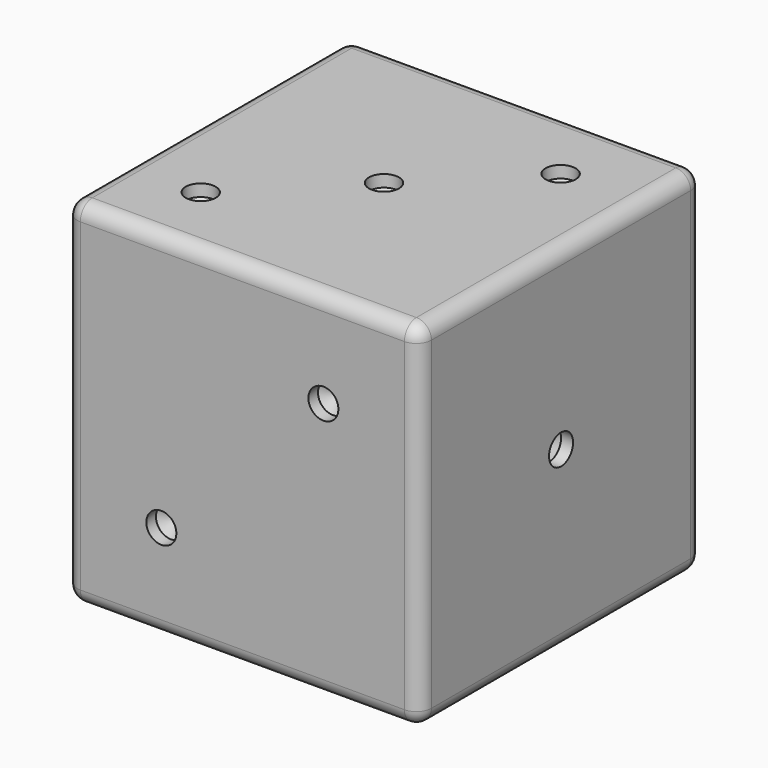
from build123d import *

# Parameters (mm, degrees)
F0_W      = 29.972
F0_H      = 29.972
F1_DEPTH  = 14.986
F2_R      = 1.27
F4_D      = 2.54
F4_DEPTH  = 1.016
F4_TIP    = 0.7630929862
F6_D      = 2.54
F6_DEPTH  = 1.016
F6_TIP    = 0.7630929862
F8_D      = 2.54
F8_DEPTH  = 1.016
F8_TIP    = 0.7630929862
F10_D     = 2.54
F10_DEPTH = 1.016
F10_TIP   = 0.7630929862
F12_D     = 2.54
F12_DEPTH = 1.016
F12_TIP   = 0.7630929862
F14_D     = 2.54
F14_DEPTH = 1.016
F14_TIP   = 0.7630929862


with BuildPart() as f1:
    # F0 (on Front) → F1 (new body, symmetric)
    with BuildSketch(Plane.XZ):
        Rectangle(F0_W, F0_H)
    extrude(amount=F1_DEPTH, both=True)

    # F2
    f2_edges = [f1.edges().sort_by_distance(p)[0] for p in [
        (14.986, 0, 14.986),
        (0, -14.986, 14.986),
        (0, 14.986, 14.986),
        (-14.986, 0, 14.986),
        (14.986, 14.986, 0),
        (14.986, -14.986, 0),
        (-14.986, -14.986, 0),
        (-14.986, 0, -14.986),
        (-14.986, 14.986, 0),
        (0, -14.986, -14.986),
        (14.986, 0, -14.986),
        (0, 14.986, -14.986),
    ]]
    fillet(f2_edges, radius=F2_R)

    # F4
    with Locations(Plane(origin=(0, 0, -14.986), x_dir=(1, 0, 0), z_dir=(0, 0, -1))):
        with Locations((-7.493, 7.493), (7.493, 7.493), (-7.493, -7.493), (7.493, -7.493)):
            Hole(F4_D / 2, depth=F4_DEPTH)
            with Locations((0, 0, -(F4_DEPTH + F4_TIP / 2))):  # 118° drill point
                Cone(0, F4_D / 2, F4_TIP, mode=Mode.SUBTRACT)

    # F6
    with Locations(Plane.XY.offset(14.986)):
        with Locations((8.3054509014, 8.3054509014), (0, 0), (-8.6194775067, -8.6194775067)):
            Hole(F6_D / 2, depth=F6_DEPTH)
            with Locations((0, 0, -(F6_DEPTH + F6_TIP / 2))):  # 118° drill point
                Cone(0, F6_D / 2, F6_TIP, mode=Mode.SUBTRACT)

    # F8
    with Locations(Plane(origin=(-14.986, 0, 0), x_dir=(0, -1, 0), z_dir=(-1, 0, 0))):
        with Locations((11.8357744068, 11.7286667228), (11.8357744068, 0), (11.8357744068, -11.7286667228), (-11.8357744068, -11.7286667228), (-11.8357744068, 0), (-11.8357744068, 11.7286667228)):
            Hole(F8_D / 2, depth=F8_DEPTH)
            with Locations((0, 0, -(F8_DEPTH + F8_TIP / 2))):  # 118° drill point
                Cone(0, F8_D / 2, F8_TIP, mode=Mode.SUBTRACT)

    # F10
    with Locations(Plane.YZ.offset(14.986)):
        with Locations((0, 0)):
            Hole(F10_D / 2, depth=F10_DEPTH)
            with Locations((0, 0, -(F10_DEPTH + F10_TIP / 2))):  # 118° drill point
                Cone(0, F10_D / 2, F10_TIP, mode=Mode.SUBTRACT)

    # F12
    with Locations(Plane(origin=(0, 14.986, 0), x_dir=(-1, 0, 0), z_dir=(0, 1, 0))):
        with Locations((-7.2789373808, 7.2789373808), (7.2789373808, 7.2789373808), (0, 0), (8.3031160757, -8.3031160757), (-8.3031160757, -8.3031160757)):
            Hole(F12_D / 2, depth=F12_DEPTH)
            with Locations((0, 0, -(F12_DEPTH + F12_TIP / 2))):  # 118° drill point
                Cone(0, F12_D / 2, F12_TIP, mode=Mode.SUBTRACT)

    # F14
    with Locations(Plane.XZ.offset(14.986)):
        with Locations((6.858, 6.858), (-6.858, -6.858)):
            Hole(F14_D / 2, depth=F14_DEPTH)
            with Locations((0, 0, -(F14_DEPTH + F14_TIP / 2))):  # 118° drill point
                Cone(0, F14_D / 2, F14_TIP, mode=Mode.SUBTRACT)


solid = f1.part
